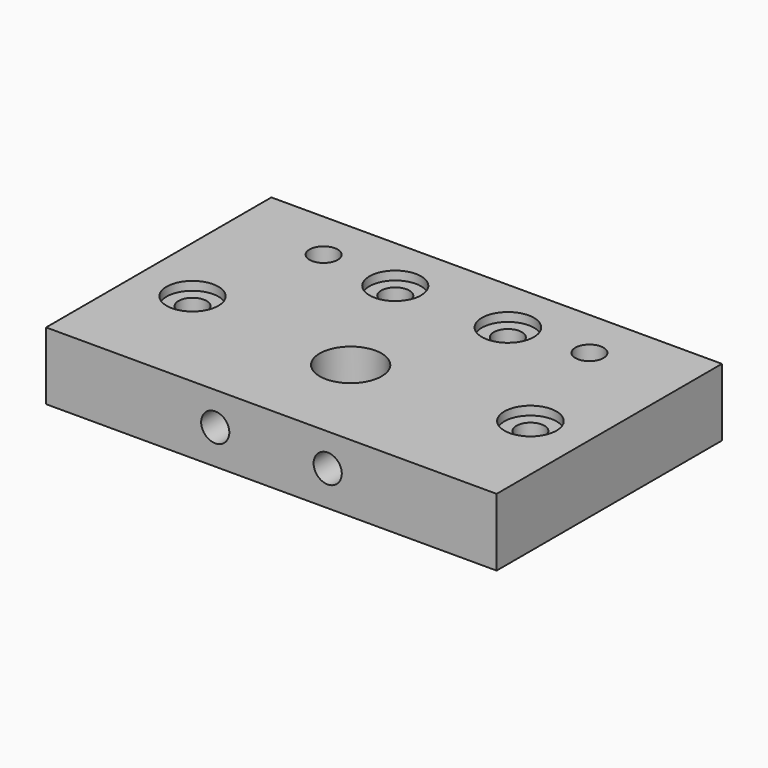
from build123d import *

# Parameters (mm, degrees)
SKETCH005_W     = 80
SKETCH005_H     = 50
SKETCH005_R     = 2.5
SKETCH005_R_2   = 5.5
PAD001_DEPTH    = 12
SKETCH006_R     = 2.5
POCKET003_DEPTH = 11
SKETCH007_R     = 8.05
POCKET004_DEPTH = 4.5
SKETCH008_R     = 4.6
SKETCH008_R_2   = 4.624594
SKETCH008_R_3   = 4.583454
SKETCH008_R_4   = 4.624604
POCKET005_DEPTH = 1.55


with BuildPart() as part:
    # Sketch005 → Pad001 (new body)
    with BuildSketch(Plane(origin=(0, 0, 262), x_dir=(1, 0, 0), z_dir=(0, 0, -1))):
        with Locations((40, 25)):
            Rectangle(SKETCH005_W, SKETCH005_H)
        with Locations((10, 30)):
            Circle(SKETCH005_R, mode=Mode.SUBTRACT)
        with Locations((30, 10)):
            Circle(SKETCH005_R, mode=Mode.SUBTRACT)
        with Locations((16.4, 8.9)):
            Circle(SKETCH005_R, mode=Mode.SUBTRACT)
        with Locations((50, 10)):
            Circle(SKETCH005_R, mode=Mode.SUBTRACT)
        with Locations((63.6, 8.9)):
            Circle(SKETCH005_R, mode=Mode.SUBTRACT)
        with Locations((70, 30)):
            Circle(SKETCH005_R, mode=Mode.SUBTRACT)
        with Locations((40, 32.4)):
            Circle(SKETCH005_R_2, mode=Mode.SUBTRACT)
    extrude(amount=PAD001_DEPTH)

    # Sketch006 → Pocket003 (cut)
    with BuildSketch(Plane(origin=(0, -50, 262), x_dir=(-1, 0, 0), z_dir=(0, -1, 0))):
        with Locations((-30.033846, 5.850095)):
            Circle(SKETCH006_R)
        with Locations((-50.003807, 5.788844)):
            Circle(SKETCH006_R)
    extrude(amount=-POCKET003_DEPTH, mode=Mode.SUBTRACT)

    # Sketch007 → Pocket004 (cut)
    with BuildSketch(Plane(origin=(0, 0, 250), x_dir=(1, 0, 0), z_dir=(0, 0, -1))):
        with Locations((40, 32.4)):
            Circle(SKETCH007_R)
    extrude(amount=-POCKET004_DEPTH, mode=Mode.SUBTRACT)

    # Sketch008 → Pocket005 (cut)
    with BuildSketch(Plane.XY.offset(262)):
        with Locations((10, -30)):
            Circle(SKETCH008_R)
        with Locations((70, -30)):
            Circle(SKETCH008_R_2)
        with Locations((30, -10)):
            Circle(SKETCH008_R_3)
        with Locations((50, -10)):
            Circle(SKETCH008_R_4)
    extrude(amount=-POCKET005_DEPTH, mode=Mode.SUBTRACT)


solid = part.part
